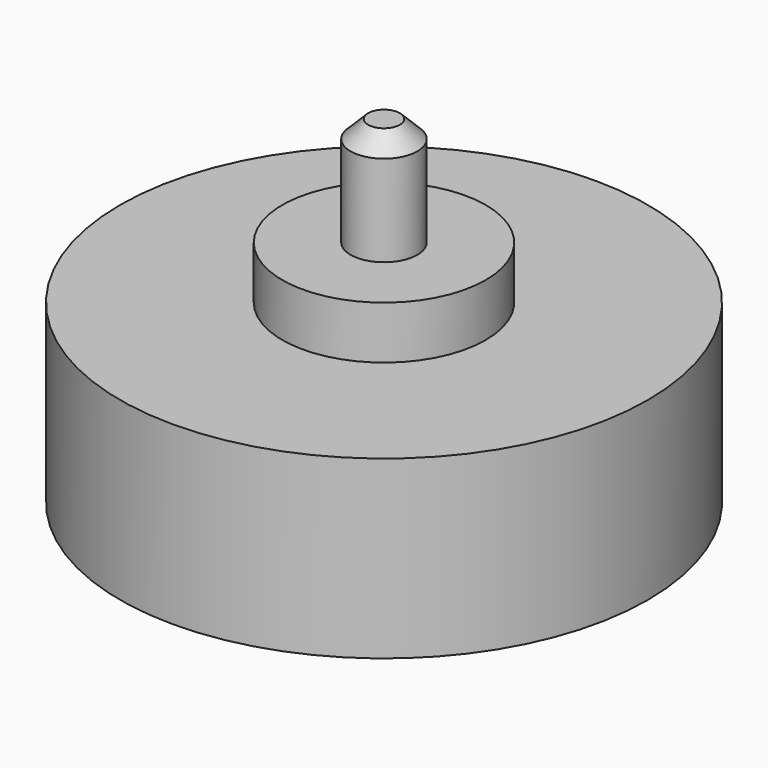
from build123d import *

# Parameters (mm, degrees)
F2_SIZE = 1.27


with BuildPart() as f1:
    # F0 (on Front) → F1 (revolve)
    with BuildSketch(Plane.XZ):
        Polygon((2.54, 0), (19.05, 0), (19.05, 12.7), (7.3406, 12.7), (7.3406, 16.51), (2.413, 16.51), (2.413, 24.3586), (0, 24.3586), (0, 16.51), (0, 12.7), (0, 7.874), (2.54, 7.874), align=None)
    revolve(axis=Axis((0, 0, 14.605), (0, 0, 1)))

    # F2
    f2_edges = [f1.edges().sort_by_distance(p)[0] for p in [
        (-2.413, 0, 24.3586),
    ]]
    chamfer(f2_edges, length=F2_SIZE)


solid = f1.part
